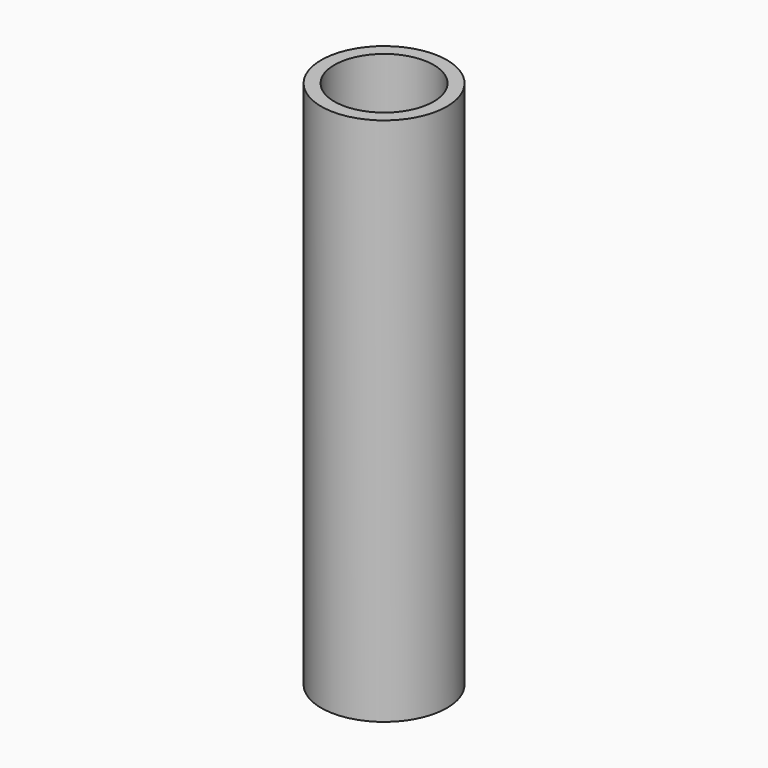
from build123d import *

# Parameters (mm, degrees)
F0_R     = 9.5
F0_R_2   = 7.5
F1_DEPTH = 80
F2_W     = 5
F2_H     = 11
F3_DEPTH = 25
F4_DEPTH = 2


with BuildPart() as f1:
    # F0 (on Top) → F1 (new body)
    with BuildSketch(Plane.XY):
        Circle(F0_R)
        Circle(F0_R_2, mode=Mode.SUBTRACT)
    extrude(amount=F1_DEPTH)

    # F2 (on Right) → F3 (cut)
    with BuildSketch(Plane.YZ):
        with Locations((0, 60)):
            Rectangle(F2_W, F2_H)
    extrude(amount=-F3_DEPTH, mode=Mode.SUBTRACT)

    # F0 (on Top) → F4 (join)
    with BuildSketch(Plane.XY):
        Circle(F0_R_2)
    extrude(amount=F4_DEPTH)


solid = f1.part
